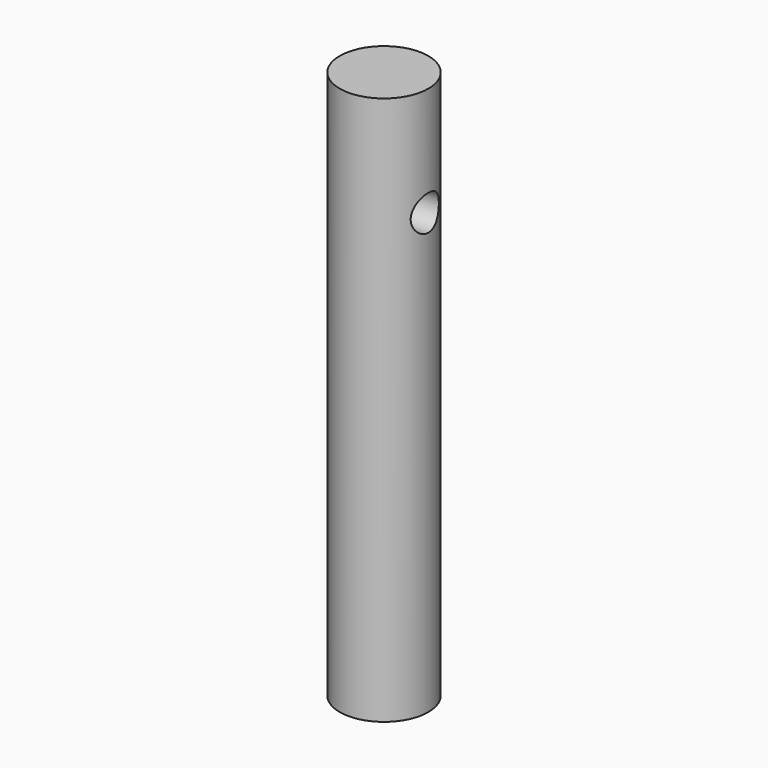
from build123d import *

# Parameters (mm, degrees)
F0_W          = 9.329008
F0_H          = 49.53
F0_R          = 1.5875
F1_DEPTH      = 4.826
F1_DEPTH_BACK = 4.064
F2_W          = 8.89
F2_H          = 9.329008
F2_R          = 4.0005
F3_DEPTH      = 49.53


with BuildPart() as f1:
    # F0 (on Right) → F1 (new body, two sides)
    with BuildSketch(Plane.YZ) as f1_sk:
        Rectangle(F0_W, F0_H)
        with Locations((0, 14.9098)):
            Circle(F0_R, mode=Mode.SUBTRACT)
    extrude(amount=F1_DEPTH)
    extrude(f1_sk.sketch, amount=-F1_DEPTH_BACK)

    # F2 (on face) → F3 (cut)
    with BuildSketch(Plane.XY.offset(24.765)):
        with Locations((0.381, 0)):
            Rectangle(F2_W, F2_H)
        Circle(F2_R, mode=Mode.SUBTRACT)
    extrude(amount=-F3_DEPTH, mode=Mode.SUBTRACT)


solid = f1.part
